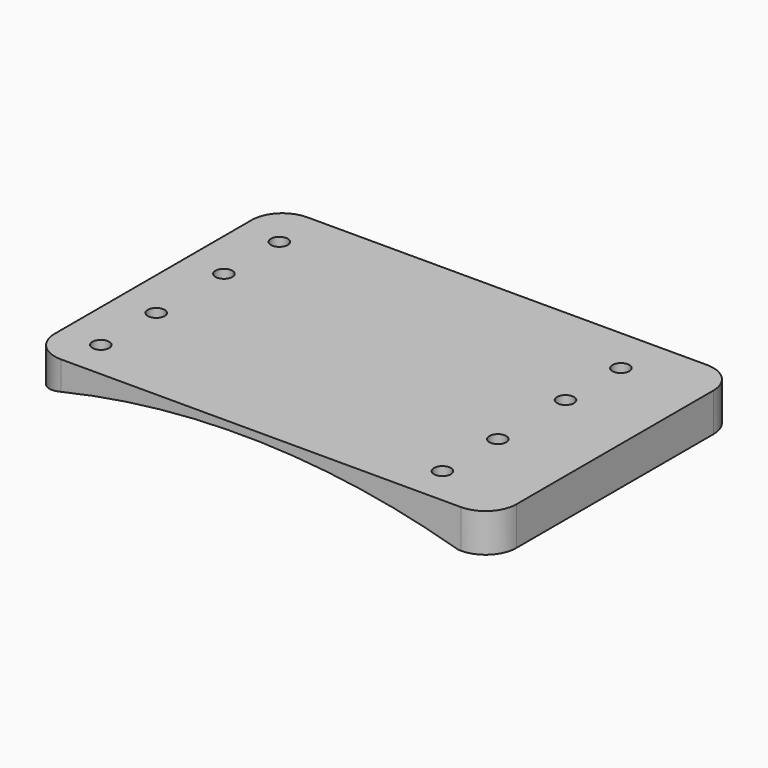
from build123d import *

# Parameters (mm, degrees)
CYLINDER_R     = 102
CYLINDER_DEPTH = 80
PAD_DEPTH      = 5
SKETCH008_R    = 1.1
POCKET_DEPTH   = 8


with BuildPart() as cylinder:
    # Cylinder → Cylinder (new body)
    with BuildSketch(Plane(origin=(24, 50, -98), x_dir=(1, 0, 0), z_dir=(0, -1, 0))):
        Circle(CYLINDER_R)
    extrude(amount=CYLINDER_DEPTH)


with BuildPart() as cut:
    # Sketch → Pad (new body)
    with BuildSketch(Plane.XY):
        with BuildLine():
            Line((0.614893, -1.006641), (52.614893, -1.006641))
            ThreePointArc((52.614893, -1.006641), (55.44332, 0.164932), (56.614893, 2.993359))
            Line((56.614893, 2.993359), (56.614893, 34.993359))
            ThreePointArc((56.614893, 34.993359), (55.44332, 37.821786), (52.614893, 38.993359))
            Line((52.614893, 38.993359), (0.614893, 38.993359))
            ThreePointArc((0.614893, 38.993359), (-2.213534, 37.821786), (-3.385107, 34.993359))
            Line((-3.385107, 34.993359), (-3.385107, 2.993359))
            ThreePointArc((-3.385107, 2.993359), (-2.213534, 0.164932), (0.614893, -1.006641))
        make_face()
    extrude(amount=PAD_DEPTH)

    # Sketch008 → Pocket (cut)
    with BuildSketch(Plane(origin=(0, 0, 0), x_dir=(1, 0, 0), z_dir=(0, 0, -1))):
        with Locations((1.8, -4)):
            Circle(SKETCH008_R)
        with Locations((1.8, -13)):
            Circle(SKETCH008_R)
        with Locations((1.8, -24)):
            Circle(SKETCH008_R)
        with Locations((1.8, -33)):
            Circle(SKETCH008_R)
        with Locations((46.2, -4)):
            Circle(SKETCH008_R)
        with Locations((46.2, -13)):
            Circle(SKETCH008_R)
        with Locations((46.2, -24)):
            Circle(SKETCH008_R)
        with Locations((46.2, -33)):
            Circle(SKETCH008_R)
    extrude(amount=-POCKET_DEPTH, mode=Mode.SUBTRACT)

    # Cut: cut Cylinder
    add(cylinder.part, mode=Mode.SUBTRACT)


solid = cut.part
